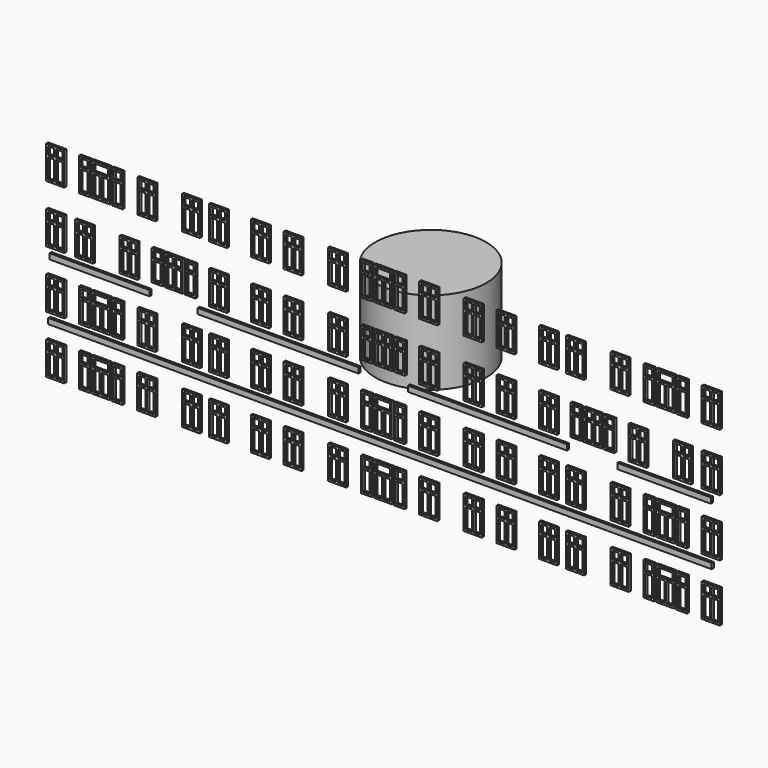
from build123d import *

# Parameters (mm, degrees)
F0_R     = 533.4
F1_DEPTH = 800
F4_W     = 174.730817
F4_H     = 316.979656
F4_W_2   = 60.48375
F4_H_2   = 189.291747
F4_H_3   = 73.924592
F4_W_3   = 174.730842
F4_H_4   = 316.97963
F4_H_5   = 189.291748
F4_H_6   = 73.924591
F4_W_4   = 174.730816
F4_W_5   = 174.735211
F4_W_6   = 138.892991
F4_H_7   = 316.979655
F4_H_8   = 189.291722
F4_W_7   = 103.03764
F4_H_9   = 318.475995
F4_W_8   = 67.204158
F4_H_10  = 190.788087
F4_W_9   = 103.046403
F4_W_10  = 67.204159
F4_W_11  = 67.204184
F4_W_12  = 103.046377
F4_W_13  = 67.204183
F4_H_11  = 190.788061
F4_W_14  = 961.579611
F4_H_12  = 53.010791
F4_W_15  = 174.730841
F4_W_16  = 138.888597
F4_W_17  = 103.046378
F4_W_18  = 138.888623
F4_H_13  = 169.344874
F4_H_14  = 70.739381
F4_H_15  = 291.53744
F4_H_16  = 170.219929
F4_H_17  = 69.094299
F4_H_18  = 174.704578
F4_H_19  = 65.379676
F4_W_19  = 138.888622
F4_W_20  = 898.978237
F5_DEPTH = 25


with BuildPart() as f1:
    # F0 (on Top) → F1 (new body)
    with BuildSketch(Plane.XY):
        Circle(F0_R)
    extrude(amount=F1_DEPTH)


with BuildPart() as f5:
    # F4 (on offset) → F5 (new body)
    with BuildSketch(Plane.XZ.offset(550)):
        with Locations((864.365454, -829.039541)):
            Rectangle(F4_W, F4_H)
        with Locations((825.163018, -874.962372)):
            Rectangle(F4_W_2, F4_H_2, mode=Mode.SUBTRACT)
        with Locations((903.567891, -874.962372)):
            Rectangle(F4_W_2, F4_H_2, mode=Mode.SUBTRACT)
        with Locations((825.163018, -725.433106)):
            Rectangle(F4_W_2, F4_H_3, mode=Mode.SUBTRACT)
        with Locations((903.567891, -725.433106)):
            Rectangle(F4_W_2, F4_H_3, mode=Mode.SUBTRACT)
        with Locations((1177.984906, -829.039541)):
            Rectangle(F4_W_3, F4_H)
        with Locations((1138.782457, -874.962372)):
            Rectangle(F4_W_2, F4_H_2, mode=Mode.SUBTRACT)
        with Locations((1217.187329, -874.962372)):
            Rectangle(F4_W_2, F4_H_2, mode=Mode.SUBTRACT)
        with Locations((1138.782457, -725.433106)):
            Rectangle(F4_W_2, F4_H_3, mode=Mode.SUBTRACT)
        with Locations((1217.187329, -725.433106)):
            Rectangle(F4_W_2, F4_H_3, mode=Mode.SUBTRACT)
        with Locations((864.365454, -277.965357)):
            Rectangle(F4_W, F4_H)
        with Locations((825.163018, -323.888215)):
            Rectangle(F4_W_2, F4_H_2, mode=Mode.SUBTRACT)
        with Locations((903.567891, -323.888215)):
            Rectangle(F4_W_2, F4_H_2, mode=Mode.SUBTRACT)
        with Locations((825.163018, -174.358948)):
            Rectangle(F4_W_2, F4_H_3, mode=Mode.SUBTRACT)
        with Locations((903.567891, -174.358948)):
            Rectangle(F4_W_2, F4_H_3, mode=Mode.SUBTRACT)
        with Locations((1177.984906, -277.965357)):
            Rectangle(F4_W_3, F4_H)
        with Locations((1138.782457, -323.888215)):
            Rectangle(F4_W_2, F4_H_2, mode=Mode.SUBTRACT)
        with Locations((1217.187329, -323.888215)):
            Rectangle(F4_W_2, F4_H_2, mode=Mode.SUBTRACT)
        with Locations((1138.782457, -174.358948)):
            Rectangle(F4_W_2, F4_H_3, mode=Mode.SUBTRACT)
        with Locations((1217.187329, -174.358948)):
            Rectangle(F4_W_2, F4_H_3, mode=Mode.SUBTRACT)
        with Locations((864.365454, 275.348941)):
            Rectangle(F4_W, F4_H_4)
        with Locations((825.163018, 229.426097)):
            Rectangle(F4_W_2, F4_H_5, mode=Mode.SUBTRACT)
        with Locations((903.567891, 229.426097)):
            Rectangle(F4_W_2, F4_H_5, mode=Mode.SUBTRACT)
        with Locations((825.163018, 378.955363)):
            Rectangle(F4_W_2, F4_H_6, mode=Mode.SUBTRACT)
        with Locations((903.567891, 378.955363)):
            Rectangle(F4_W_2, F4_H_6, mode=Mode.SUBTRACT)
        with Locations((435.37886, 275.348941)):
            Rectangle(F4_W_4, F4_H_4)
        with Locations((396.176424, 229.426097)):
            Rectangle(F4_W_2, F4_H_5, mode=Mode.SUBTRACT)
        with Locations((474.581296, 229.426097)):
            Rectangle(F4_W_2, F4_H_5, mode=Mode.SUBTRACT)
        with Locations((396.176424, 378.955363)):
            Rectangle(F4_W_2, F4_H_6, mode=Mode.SUBTRACT)
        with Locations((474.581296, 378.955363)):
            Rectangle(F4_W_2, F4_H_6, mode=Mode.SUBTRACT)
        with Locations((435.37886, 829.783316)):
            Rectangle(F4_W_4, F4_H_4)
        with Locations((396.176424, 783.860472)):
            Rectangle(F4_W_2, F4_H_5, mode=Mode.SUBTRACT)
        with Locations((474.581296, 783.860472)):
            Rectangle(F4_W_2, F4_H_5, mode=Mode.SUBTRACT)
        with Locations((396.176424, 933.389739)):
            Rectangle(F4_W_2, F4_H_6, mode=Mode.SUBTRACT)
        with Locations((474.581296, 933.389739)):
            Rectangle(F4_W_2, F4_H_6, mode=Mode.SUBTRACT)
        with Locations((-442.75121, 275.348941)):
            Rectangle(F4_W_4, F4_H_4)
        with Locations((-481.953646, 229.426097)):
            Rectangle(F4_W_2, F4_H_5, mode=Mode.SUBTRACT)
        with Locations((-403.548774, 229.426097)):
            Rectangle(F4_W_2, F4_H_5, mode=Mode.SUBTRACT)
        with Locations((-481.953646, 378.955363)):
            Rectangle(F4_W_2, F4_H_6, mode=Mode.SUBTRACT)
        with Locations((-403.548774, 378.955363)):
            Rectangle(F4_W_2, F4_H_6, mode=Mode.SUBTRACT)
        with Locations((-442.75121, -277.965357)):
            Rectangle(F4_W_4, F4_H)
        with Locations((-481.953646, -323.888215)):
            Rectangle(F4_W_2, F4_H_2, mode=Mode.SUBTRACT)
        with Locations((-403.548774, -323.888215)):
            Rectangle(F4_W_2, F4_H_2, mode=Mode.SUBTRACT)
        with Locations((-481.953646, -174.358948)):
            Rectangle(F4_W_2, F4_H_3, mode=Mode.SUBTRACT)
        with Locations((-403.548774, -174.358948)):
            Rectangle(F4_W_2, F4_H_3, mode=Mode.SUBTRACT)
        with Locations((-442.75121, 829.783316)):
            Rectangle(F4_W_4, F4_H_4)
        with Locations((-481.953646, 783.860472)):
            Rectangle(F4_W_2, F4_H_5, mode=Mode.SUBTRACT)
        with Locations((-403.548774, 783.860472)):
            Rectangle(F4_W_2, F4_H_5, mode=Mode.SUBTRACT)
        with Locations((-481.953646, 933.389739)):
            Rectangle(F4_W_2, F4_H_6, mode=Mode.SUBTRACT)
        with Locations((-403.548774, 933.389739)):
            Rectangle(F4_W_2, F4_H_6, mode=Mode.SUBTRACT)
        with Locations((-2.561729, 829.783316)):
            Rectangle(F4_W_5, F4_H_4)
        with Locations((-41.766363, 783.860472)):
            Rectangle(F4_W_2, F4_H_5, mode=Mode.SUBTRACT)
        with Locations((-2.561742, 933.389739)):
            Rectangle(F4_W_6, F4_H_6, mode=Mode.SUBTRACT)
        with Locations((36.642878, 783.860472)):
            Rectangle(F4_W_2, F4_H_5, mode=Mode.SUBTRACT)
        with Locations((435.37886, -277.965357)):
            Rectangle(F4_W_4, F4_H)
        with Locations((396.176424, -323.888215)):
            Rectangle(F4_W_2, F4_H_2, mode=Mode.SUBTRACT)
        with Locations((474.581296, -323.888215)):
            Rectangle(F4_W_2, F4_H_2, mode=Mode.SUBTRACT)
        with Locations((396.176424, -174.358948)):
            Rectangle(F4_W_2, F4_H_3, mode=Mode.SUBTRACT)
        with Locations((474.581296, -174.358948)):
            Rectangle(F4_W_2, F4_H_3, mode=Mode.SUBTRACT)
        with Locations((1177.984906, 275.348941)):
            Rectangle(F4_W_3, F4_H_4)
        with Locations((1138.782457, 229.426097)):
            Rectangle(F4_W_2, F4_H_5, mode=Mode.SUBTRACT)
        with Locations((1217.187329, 229.426097)):
            Rectangle(F4_W_2, F4_H_5, mode=Mode.SUBTRACT)
        with Locations((1138.782457, 378.955363)):
            Rectangle(F4_W_2, F4_H_6, mode=Mode.SUBTRACT)
        with Locations((1217.187329, 378.955363)):
            Rectangle(F4_W_2, F4_H_6, mode=Mode.SUBTRACT)
        with Locations((864.365454, 825.303048)):
            Rectangle(F4_W, F4_H_7)
        with Locations((825.163018, 779.380191)):
            Rectangle(F4_W_2, F4_H_2, mode=Mode.SUBTRACT)
        with Locations((903.567891, 779.380191)):
            Rectangle(F4_W_2, F4_H_2, mode=Mode.SUBTRACT)
        with Locations((825.163018, 928.909458)):
            Rectangle(F4_W_2, F4_H_3, mode=Mode.SUBTRACT)
        with Locations((903.567891, 928.909458)):
            Rectangle(F4_W_2, F4_H_3, mode=Mode.SUBTRACT)
        with Locations((1177.984906, 825.303048)):
            Rectangle(F4_W_3, F4_H_7)
        with Locations((1138.782457, 779.380191)):
            Rectangle(F4_W_2, F4_H_2, mode=Mode.SUBTRACT)
        with Locations((1217.187329, 779.380191)):
            Rectangle(F4_W_2, F4_H_2, mode=Mode.SUBTRACT)
        with Locations((1138.782457, 928.909458)):
            Rectangle(F4_W_2, F4_H_3, mode=Mode.SUBTRACT)
        with Locations((1217.187329, 928.909458)):
            Rectangle(F4_W_2, F4_H_3, mode=Mode.SUBTRACT)
        with Locations((-1184.237192, -276.285249)):
            Rectangle(F4_W_3, F4_H)
        with Locations((-1223.439616, -322.208106)):
            Rectangle(F4_W_2, F4_H_5, mode=Mode.SUBTRACT)
        with Locations((-1145.034743, -322.208106)):
            Rectangle(F4_W_2, F4_H_5, mode=Mode.SUBTRACT)
        with Locations((-1223.439616, -172.678839)):
            Rectangle(F4_W_2, F4_H_3, mode=Mode.SUBTRACT)
        with Locations((-1145.034743, -172.678839)):
            Rectangle(F4_W_2, F4_H_3, mode=Mode.SUBTRACT)
        with Locations((-870.61774, -276.285249)):
            Rectangle(F4_W, F4_H)
        with Locations((-909.820177, -322.208106)):
            Rectangle(F4_W_2, F4_H_5, mode=Mode.SUBTRACT)
        with Locations((-831.415304, -322.208106)):
            Rectangle(F4_W_2, F4_H_5, mode=Mode.SUBTRACT)
        with Locations((-909.820177, -172.678839)):
            Rectangle(F4_W_2, F4_H_3, mode=Mode.SUBTRACT)
        with Locations((-831.415304, -172.678839)):
            Rectangle(F4_W_2, F4_H_3, mode=Mode.SUBTRACT)
        with Locations((-1184.237192, 277.029037)):
            Rectangle(F4_W_3, F4_H)
        with Locations((-1223.439616, 231.106193)):
            Rectangle(F4_W_2, F4_H_8, mode=Mode.SUBTRACT)
        with Locations((-1145.034743, 231.106193)):
            Rectangle(F4_W_2, F4_H_8, mode=Mode.SUBTRACT)
        with Locations((-1223.439616, 380.635472)):
            Rectangle(F4_W_2, F4_H_3, mode=Mode.SUBTRACT)
        with Locations((-1145.034743, 380.635472)):
            Rectangle(F4_W_2, F4_H_3, mode=Mode.SUBTRACT)
        with Locations((-870.61774, 277.029037)):
            Rectangle(F4_W, F4_H)
        with Locations((-909.820177, 231.106193)):
            Rectangle(F4_W_2, F4_H_8, mode=Mode.SUBTRACT)
        with Locations((-831.415304, 231.106193)):
            Rectangle(F4_W_2, F4_H_8, mode=Mode.SUBTRACT)
        with Locations((-909.820177, 380.635472)):
            Rectangle(F4_W_2, F4_H_3, mode=Mode.SUBTRACT)
        with Locations((-831.415304, 380.635472)):
            Rectangle(F4_W_2, F4_H_3, mode=Mode.SUBTRACT)
        with Locations((-1184.237192, 826.983131)):
            Rectangle(F4_W_3, F4_H_7)
        with Locations((-1223.439616, 781.060299)):
            Rectangle(F4_W_2, F4_H_2, mode=Mode.SUBTRACT)
        with Locations((-1145.034743, 781.060299)):
            Rectangle(F4_W_2, F4_H_2, mode=Mode.SUBTRACT)
        with Locations((-1223.439616, 930.589566)):
            Rectangle(F4_W_2, F4_H_3, mode=Mode.SUBTRACT)
        with Locations((-1145.034743, 930.589566)):
            Rectangle(F4_W_2, F4_H_3, mode=Mode.SUBTRACT)
        with Locations((-870.61774, 826.983131)):
            Rectangle(F4_W, F4_H_7)
        with Locations((-909.820177, 781.060299)):
            Rectangle(F4_W_2, F4_H_2, mode=Mode.SUBTRACT)
        with Locations((-831.415304, 781.060299)):
            Rectangle(F4_W_2, F4_H_2, mode=Mode.SUBTRACT)
        with Locations((-909.820177, 930.589566)):
            Rectangle(F4_W_2, F4_H_3, mode=Mode.SUBTRACT)
        with Locations((-831.415304, 930.589566)):
            Rectangle(F4_W_2, F4_H_3, mode=Mode.SUBTRACT)
        with Locations((435.37886, -829.039541)):
            Rectangle(F4_W_4, F4_H)
        with Locations((396.176424, -874.962372)):
            Rectangle(F4_W_2, F4_H_2, mode=Mode.SUBTRACT)
        with Locations((474.581296, -874.962372)):
            Rectangle(F4_W_2, F4_H_2, mode=Mode.SUBTRACT)
        with Locations((396.176424, -725.433106)):
            Rectangle(F4_W_2, F4_H_3, mode=Mode.SUBTRACT)
        with Locations((474.581296, -725.433106)):
            Rectangle(F4_W_2, F4_H_3, mode=Mode.SUBTRACT)
        with Locations((-441.631146, -829.039541)):
            Rectangle(F4_W_4, F4_H)
        with Locations((-480.833582, -874.962372)):
            Rectangle(F4_W_2, F4_H_2, mode=Mode.SUBTRACT)
        with Locations((-402.42871, -874.962372)):
            Rectangle(F4_W_2, F4_H_2, mode=Mode.SUBTRACT)
        with Locations((-480.833582, -725.433106)):
            Rectangle(F4_W_2, F4_H_3, mode=Mode.SUBTRACT)
        with Locations((-402.42871, -725.433106)):
            Rectangle(F4_W_2, F4_H_3, mode=Mode.SUBTRACT)
        with Locations((-870.61774, -829.039541)):
            Rectangle(F4_W, F4_H)
        with Locations((-909.820177, -874.962372)):
            Rectangle(F4_W_2, F4_H_2, mode=Mode.SUBTRACT)
        with Locations((-831.415304, -874.962372)):
            Rectangle(F4_W_2, F4_H_2, mode=Mode.SUBTRACT)
        with Locations((-909.820177, -725.433106)):
            Rectangle(F4_W_2, F4_H_3, mode=Mode.SUBTRACT)
        with Locations((-831.415304, -725.433106)):
            Rectangle(F4_W_2, F4_H_3, mode=Mode.SUBTRACT)
        with Locations((-1184.237192, -829.039541)):
            Rectangle(F4_W_3, F4_H)
        with Locations((-1223.439616, -874.962372)):
            Rectangle(F4_W_2, F4_H_2, mode=Mode.SUBTRACT)
        with Locations((-1145.034743, -874.962372)):
            Rectangle(F4_W_2, F4_H_2, mode=Mode.SUBTRACT)
        with Locations((-1223.439616, -725.433106)):
            Rectangle(F4_W_2, F4_H_3, mode=Mode.SUBTRACT)
        with Locations((-1145.034743, -725.433106)):
            Rectangle(F4_W_2, F4_H_3, mode=Mode.SUBTRACT)
        with Locations((156.485946, 829.035134)):
            Rectangle(F4_W_7, F4_H_9)
        with Locations((156.481564, 783.112302)):
            Rectangle(F4_W_8, F4_H_10, mode=Mode.SUBTRACT)
        with Locations((156.481564, 933.389739)):
            Rectangle(F4_W_8, F4_H_6, mode=Mode.SUBTRACT)
        with Locations((-161.613787, 829.035134)):
            Rectangle(F4_W_9, F4_H_9)
        with Locations((-161.613787, 783.112302)):
            Rectangle(F4_W_10, F4_H_10, mode=Mode.SUBTRACT)
        with Locations((-161.613787, 933.389739)):
            Rectangle(F4_W_10, F4_H_6, mode=Mode.SUBTRACT)
        with Locations((-3.121775, -277.212819)):
            Rectangle(F4_W_5, F4_H_4)
        with Locations((-42.326382, -323.135663)):
            Rectangle(F4_W_2, F4_H_5, mode=Mode.SUBTRACT)
        with Locations((-3.121762, -173.606397)):
            Rectangle(F4_W_6, F4_H_6, mode=Mode.SUBTRACT)
        with Locations((36.082859, -323.135663)):
            Rectangle(F4_W_2, F4_H_5, mode=Mode.SUBTRACT)
        with Locations((155.925901, -277.961001)):
            Rectangle(F4_W_7, F4_H_9)
        with Locations((155.921532, -323.883832)):
            Rectangle(F4_W_11, F4_H_10, mode=Mode.SUBTRACT)
        with Locations((155.921532, -173.606397)):
            Rectangle(F4_W_11, F4_H_6, mode=Mode.SUBTRACT)
        with Locations((-162.173818, -277.961001)):
            Rectangle(F4_W_12, F4_H_9)
        with Locations((-162.173818, -323.883832)):
            Rectangle(F4_W_13, F4_H_10, mode=Mode.SUBTRACT)
        with Locations((-162.173818, -173.606397)):
            Rectangle(F4_W_13, F4_H_6, mode=Mode.SUBTRACT)
        with Locations((-2.561729, -828.286989)):
            Rectangle(F4_W_5, F4_H_7)
        with Locations((-41.766363, -874.209834)):
            Rectangle(F4_W_2, F4_H_8, mode=Mode.SUBTRACT)
        with Locations((-2.561742, -724.680555)):
            Rectangle(F4_W_6, F4_H_3, mode=Mode.SUBTRACT)
        with Locations((36.642878, -874.209834)):
            Rectangle(F4_W_2, F4_H_8, mode=Mode.SUBTRACT)
        with Locations((156.485946, -829.035159)):
            Rectangle(F4_W_7, F4_H_9)
        with Locations((156.481564, -874.958003)):
            Rectangle(F4_W_8, F4_H_11, mode=Mode.SUBTRACT)
        with Locations((156.481564, -724.680555)):
            Rectangle(F4_W_8, F4_H_3, mode=Mode.SUBTRACT)
        with Locations((-161.613787, -829.035159)):
            Rectangle(F4_W_9, F4_H_9)
        with Locations((-161.613787, -874.958003)):
            Rectangle(F4_W_10, F4_H_11, mode=Mode.SUBTRACT)
        with Locations((-161.613787, -724.680555)):
            Rectangle(F4_W_10, F4_H_3, mode=Mode.SUBTRACT)
        Polygon((3163.150468, -535.38882), (3163.150468, -482.378029), (1424.023898, -482.378029), (1373.997049, -482.378029), (1321.362534, -482.378029), (-1323.31394, -482.378029), (-3221.184109, -482.378029), (-3221.184109, -535.38882), (-1323.31394, -535.38882), (1321.362534, -535.38882), (1373.997049, -535.38882), (1424.023898, -535.38882), align=None)
        with Locations((-2727.163468, 43.678335)):
            Rectangle(F4_W_14, F4_H_12)
        Polygon((-1783.014925, 70.183731), (-1783.014925, 17.17294), (-1323.31394, 17.17294), (-235.538366, 17.17294), (-235.538366, 70.183731), (-1323.31394, 70.183731), align=None)
        Polygon((1321.362534, 17.17294), (1373.997049, 17.17294), (1433.658245, 17.17294), (1769.784091, 17.17294), (1769.784091, 70.183731), (1433.658245, 70.183731), (1373.997049, 70.183731), (1318.746131, 70.183731), (238.920426, 70.183731), (238.920426, 17.17294), align=None)
        with Locations((-3154.189945, 275.348941)):
            Rectangle(F4_W_3, F4_H_4)
        with Locations((-3193.392369, 229.426097)):
            Rectangle(F4_W_2, F4_H_5, mode=Mode.SUBTRACT)
        with Locations((-3114.987522, 229.426097)):
            Rectangle(F4_W_2, F4_H_5, mode=Mode.SUBTRACT)
        with Locations((-3193.392369, 378.955363)):
            Rectangle(F4_W_2, F4_H_6, mode=Mode.SUBTRACT)
        with Locations((-3114.987522, 378.955363)):
            Rectangle(F4_W_2, F4_H_6, mode=Mode.SUBTRACT)
        with Locations((-3154.189945, 829.783316)):
            Rectangle(F4_W_3, F4_H_4)
        with Locations((-3193.392369, 783.860472)):
            Rectangle(F4_W_2, F4_H_5, mode=Mode.SUBTRACT)
        with Locations((-3114.987522, 783.860472)):
            Rectangle(F4_W_2, F4_H_5, mode=Mode.SUBTRACT)
        with Locations((-3193.392369, 933.389739)):
            Rectangle(F4_W_2, F4_H_6, mode=Mode.SUBTRACT)
        with Locations((-3114.987522, 933.389739)):
            Rectangle(F4_W_2, F4_H_6, mode=Mode.SUBTRACT)
        with Locations((-2876.412726, 275.348941)):
            Rectangle(F4_W_3, F4_H_4)
        with Locations((-2915.615149, 229.426097)):
            Rectangle(F4_W_2, F4_H_5, mode=Mode.SUBTRACT)
        with Locations((-2837.210302, 229.426097)):
            Rectangle(F4_W_2, F4_H_5, mode=Mode.SUBTRACT)
        with Locations((-2915.615149, 378.955363)):
            Rectangle(F4_W_2, F4_H_6, mode=Mode.SUBTRACT)
        with Locations((-2837.210302, 378.955363)):
            Rectangle(F4_W_2, F4_H_6, mode=Mode.SUBTRACT)
        with Locations((-2276.055506, -277.965357)):
            Rectangle(F4_W_3, F4_H)
        with Locations((-2315.25793, -323.888215)):
            Rectangle(F4_W_2, F4_H_2, mode=Mode.SUBTRACT)
        with Locations((-2236.853083, -323.888215)):
            Rectangle(F4_W_2, F4_H_2, mode=Mode.SUBTRACT)
        with Locations((-2315.25793, -174.358948)):
            Rectangle(F4_W_2, F4_H_3, mode=Mode.SUBTRACT)
        with Locations((-2236.853083, -174.358948)):
            Rectangle(F4_W_2, F4_H_3, mode=Mode.SUBTRACT)
        with Locations((-2276.055506, 829.783316)):
            Rectangle(F4_W_3, F4_H_4)
        with Locations((-2315.25793, 783.860472)):
            Rectangle(F4_W_2, F4_H_5, mode=Mode.SUBTRACT)
        with Locations((-2236.853083, 783.860472)):
            Rectangle(F4_W_2, F4_H_5, mode=Mode.SUBTRACT)
        with Locations((-2315.25793, 933.389739)):
            Rectangle(F4_W_2, F4_H_6, mode=Mode.SUBTRACT)
        with Locations((-2236.853083, 933.389739)):
            Rectangle(F4_W_2, F4_H_6, mode=Mode.SUBTRACT)
        with Locations((-2716.24279, 829.783316)):
            Rectangle(F4_W_15, F4_H_4)
        with Locations((-2755.445213, 783.860472)):
            Rectangle(F4_W_2, F4_H_5, mode=Mode.SUBTRACT)
        with Locations((-2677.040366, 783.860472)):
            Rectangle(F4_W_2, F4_H_5, mode=Mode.SUBTRACT)
        with Locations((-2716.24279, 933.389739)):
            Rectangle(F4_W_16, F4_H_6, mode=Mode.SUBTRACT)
        with Locations((-3154.189945, -277.965357)):
            Rectangle(F4_W_3, F4_H)
        with Locations((-3193.392369, -323.888215)):
            Rectangle(F4_W_2, F4_H_2, mode=Mode.SUBTRACT)
        with Locations((-3114.987522, -323.888215)):
            Rectangle(F4_W_2, F4_H_2, mode=Mode.SUBTRACT)
        with Locations((-3193.392369, -174.358948)):
            Rectangle(F4_W_2, F4_H_3, mode=Mode.SUBTRACT)
        with Locations((-3114.987522, -174.358948)):
            Rectangle(F4_W_2, F4_H_3, mode=Mode.SUBTRACT)
        with Locations((-1588.332866, -276.285249)):
            Rectangle(F4_W_4, F4_H)
        with Locations((-1627.535302, -322.208106)):
            Rectangle(F4_W_2, F4_H_5, mode=Mode.SUBTRACT)
        with Locations((-1627.535302, -172.678839)):
            Rectangle(F4_W_2, F4_H_3, mode=Mode.SUBTRACT)
        with Locations((-1549.13043, -322.208106)):
            Rectangle(F4_W_2, F4_H_5, mode=Mode.SUBTRACT)
        with Locations((-1549.13043, -172.678839)):
            Rectangle(F4_W_2, F4_H_3, mode=Mode.SUBTRACT)
        with Locations((-1848.188976, -276.285249)):
            Rectangle(F4_W_3, F4_H)
        with Locations((-1887.391399, -322.208106)):
            Rectangle(F4_W_2, F4_H_5, mode=Mode.SUBTRACT)
        with Locations((-1808.986552, -322.208106)):
            Rectangle(F4_W_2, F4_H_5, mode=Mode.SUBTRACT)
        with Locations((-1887.391399, -172.678839)):
            Rectangle(F4_W_2, F4_H_3, mode=Mode.SUBTRACT)
        with Locations((-1808.986552, -172.678839)):
            Rectangle(F4_W_2, F4_H_3, mode=Mode.SUBTRACT)
        with Locations((-1588.332866, 277.029037)):
            Rectangle(F4_W_4, F4_H)
        with Locations((-1627.535302, 231.106193)):
            Rectangle(F4_W_2, F4_H_8, mode=Mode.SUBTRACT)
        with Locations((-1627.535302, 380.635472)):
            Rectangle(F4_W_2, F4_H_3, mode=Mode.SUBTRACT)
        with Locations((-1549.13043, 231.106193)):
            Rectangle(F4_W_2, F4_H_8, mode=Mode.SUBTRACT)
        with Locations((-1549.13043, 380.635472)):
            Rectangle(F4_W_2, F4_H_3, mode=Mode.SUBTRACT)
        with Locations((-2448.546195, 277.029037)):
            Rectangle(F4_W_3, F4_H)
        with Locations((-2487.748619, 231.106193)):
            Rectangle(F4_W_2, F4_H_8, mode=Mode.SUBTRACT)
        with Locations((-2409.343772, 231.106193)):
            Rectangle(F4_W_2, F4_H_8, mode=Mode.SUBTRACT)
        with Locations((-2487.748619, 380.635472)):
            Rectangle(F4_W_2, F4_H_3, mode=Mode.SUBTRACT)
        with Locations((-2409.343772, 380.635472)):
            Rectangle(F4_W_2, F4_H_3, mode=Mode.SUBTRACT)
        with Locations((-1588.332866, 826.983131)):
            Rectangle(F4_W_4, F4_H_7)
        with Locations((-1627.535302, 781.060299)):
            Rectangle(F4_W_2, F4_H_2, mode=Mode.SUBTRACT)
        with Locations((-1627.535302, 930.589566)):
            Rectangle(F4_W_2, F4_H_3, mode=Mode.SUBTRACT)
        with Locations((-1549.13043, 781.060299)):
            Rectangle(F4_W_2, F4_H_2, mode=Mode.SUBTRACT)
        with Locations((-1549.13043, 930.589566)):
            Rectangle(F4_W_2, F4_H_3, mode=Mode.SUBTRACT)
        with Locations((-1848.188976, 826.983131)):
            Rectangle(F4_W_3, F4_H_7)
        with Locations((-1887.391399, 781.060299)):
            Rectangle(F4_W_2, F4_H_2, mode=Mode.SUBTRACT)
        with Locations((-1808.986552, 781.060299)):
            Rectangle(F4_W_2, F4_H_2, mode=Mode.SUBTRACT)
        with Locations((-1887.391399, 930.589566)):
            Rectangle(F4_W_2, F4_H_3, mode=Mode.SUBTRACT)
        with Locations((-1808.986552, 930.589566)):
            Rectangle(F4_W_2, F4_H_3, mode=Mode.SUBTRACT)
        with Locations((-3154.189945, -829.039541)):
            Rectangle(F4_W_3, F4_H)
        with Locations((-3193.392369, -874.962372)):
            Rectangle(F4_W_2, F4_H_2, mode=Mode.SUBTRACT)
        with Locations((-3114.987522, -874.962372)):
            Rectangle(F4_W_2, F4_H_2, mode=Mode.SUBTRACT)
        with Locations((-3193.392369, -725.433106)):
            Rectangle(F4_W_2, F4_H_3, mode=Mode.SUBTRACT)
        with Locations((-3114.987522, -725.433106)):
            Rectangle(F4_W_2, F4_H_3, mode=Mode.SUBTRACT)
        with Locations((-2277.17557, -829.039541)):
            Rectangle(F4_W_3, F4_H)
        with Locations((-2316.377994, -874.962372)):
            Rectangle(F4_W_2, F4_H_2, mode=Mode.SUBTRACT)
        with Locations((-2237.973147, -874.962372)):
            Rectangle(F4_W_2, F4_H_2, mode=Mode.SUBTRACT)
        with Locations((-2316.377994, -725.433106)):
            Rectangle(F4_W_2, F4_H_3, mode=Mode.SUBTRACT)
        with Locations((-2237.973147, -725.433106)):
            Rectangle(F4_W_2, F4_H_3, mode=Mode.SUBTRACT)
        with Locations((-1848.188976, -829.039541)):
            Rectangle(F4_W_3, F4_H)
        with Locations((-1887.391399, -874.962372)):
            Rectangle(F4_W_2, F4_H_2, mode=Mode.SUBTRACT)
        with Locations((-1808.986552, -874.962372)):
            Rectangle(F4_W_2, F4_H_2, mode=Mode.SUBTRACT)
        with Locations((-1887.391399, -725.433106)):
            Rectangle(F4_W_2, F4_H_3, mode=Mode.SUBTRACT)
        with Locations((-1808.986552, -725.433106)):
            Rectangle(F4_W_2, F4_H_3, mode=Mode.SUBTRACT)
        with Locations((-1588.332866, -829.039541)):
            Rectangle(F4_W_4, F4_H)
        with Locations((-1627.535302, -874.962372)):
            Rectangle(F4_W_2, F4_H_2, mode=Mode.SUBTRACT)
        with Locations((-1627.535302, -725.433106)):
            Rectangle(F4_W_2, F4_H_3, mode=Mode.SUBTRACT)
        with Locations((-1549.13043, -874.962372)):
            Rectangle(F4_W_2, F4_H_2, mode=Mode.SUBTRACT)
        with Locations((-1549.13043, -725.433106)):
            Rectangle(F4_W_2, F4_H_3, mode=Mode.SUBTRACT)
        with Locations((-2875.292649, 829.035134)):
            Rectangle(F4_W_17, F4_H_9)
        with Locations((-2875.292662, 783.112302)):
            Rectangle(F4_W_8, F4_H_10, mode=Mode.SUBTRACT)
        with Locations((-2875.292662, 933.389739)):
            Rectangle(F4_W_8, F4_H_6, mode=Mode.SUBTRACT)
        with Locations((-2557.19293, 829.035134)):
            Rectangle(F4_W_17, F4_H_9)
        with Locations((-2557.19293, 783.112302)):
            Rectangle(F4_W_11, F4_H_10, mode=Mode.SUBTRACT)
        with Locations((-2557.19293, 933.389739)):
            Rectangle(F4_W_11, F4_H_6, mode=Mode.SUBTRACT)
        with Locations((-2715.682757, -277.212819)):
            Rectangle(F4_W, F4_H_4)
        with Locations((-2754.885194, -323.135663)):
            Rectangle(F4_W_2, F4_H_5, mode=Mode.SUBTRACT)
        with Locations((-2676.480321, -323.135663)):
            Rectangle(F4_W_2, F4_H_5, mode=Mode.SUBTRACT)
        with Locations((-2715.682757, -173.606397)):
            Rectangle(F4_W_18, F4_H_6, mode=Mode.SUBTRACT)
        with Locations((-2874.732617, -277.961001)):
            Rectangle(F4_W_9, F4_H_9)
        with Locations((-2874.732617, -323.883832)):
            Rectangle(F4_W_8, F4_H_10, mode=Mode.SUBTRACT)
        with Locations((-2874.732617, -173.606397)):
            Rectangle(F4_W_8, F4_H_6, mode=Mode.SUBTRACT)
        with Locations((-2556.632897, -277.961001)):
            Rectangle(F4_W_9, F4_H_9)
        with Locations((-2556.632898, -323.883832)):
            Rectangle(F4_W_8, F4_H_10, mode=Mode.SUBTRACT)
        with Locations((-2556.632898, -173.606397)):
            Rectangle(F4_W_8, F4_H_6, mode=Mode.SUBTRACT)
        with Locations((-2716.24279, -828.286989)):
            Rectangle(F4_W_15, F4_H_7)
        with Locations((-2755.445213, -874.209834)):
            Rectangle(F4_W_2, F4_H_8, mode=Mode.SUBTRACT)
        with Locations((-2677.040366, -874.209834)):
            Rectangle(F4_W_2, F4_H_8, mode=Mode.SUBTRACT)
        with Locations((-2716.24279, -724.680555)):
            Rectangle(F4_W_16, F4_H_3, mode=Mode.SUBTRACT)
        with Locations((-2875.292649, -829.035159)):
            Rectangle(F4_W_17, F4_H_9)
        with Locations((-2875.292662, -874.958003)):
            Rectangle(F4_W_8, F4_H_11, mode=Mode.SUBTRACT)
        with Locations((-2875.292662, -724.680555)):
            Rectangle(F4_W_8, F4_H_3, mode=Mode.SUBTRACT)
        with Locations((-2557.19293, -829.035159)):
            Rectangle(F4_W_17, F4_H_9)
        with Locations((-2557.19293, -874.958003)):
            Rectangle(F4_W_11, F4_H_11, mode=Mode.SUBTRACT)
        with Locations((-2557.19293, -724.680555)):
            Rectangle(F4_W_11, F4_H_3, mode=Mode.SUBTRACT)
        Polygon((-2023.479849, 142.301316), (-2005.558727, 142.301316), (-1927.15388, 142.301316), (-1927.15388, 433.838756), (-2101.884696, 433.838756), (-2101.884696, 142.301316), align=None)
        with Locations((-2053.721724, 244.124823)):
            Rectangle(F4_W_2, F4_H_13, mode=Mode.SUBTRACT)
        with Locations((-1975.316852, 244.124823)):
            Rectangle(F4_W_2, F4_H_13, mode=Mode.SUBTRACT)
        with Locations((-2053.721724, 381.31802)):
            Rectangle(F4_W_2, F4_H_14, mode=Mode.SUBTRACT)
        with Locations((-1975.316852, 381.31802)):
            Rectangle(F4_W_2, F4_H_14, mode=Mode.SUBTRACT)
        with Locations((-2173.569147, 288.070036)):
            Rectangle(F4_W_9, F4_H_15)
        with Locations((-2173.569148, 244.56235)):
            Rectangle(F4_W_8, F4_H_16, mode=Mode.SUBTRACT)
        with Locations((-2173.569148, 382.140561)):
            Rectangle(F4_W_8, F4_H_17, mode=Mode.SUBTRACT)
        with Locations((-1855.469429, 288.070036)):
            Rectangle(F4_W_9, F4_H_15)
        with Locations((-1855.469429, 246.804675)):
            Rectangle(F4_W_10, F4_H_18, mode=Mode.SUBTRACT)
        with Locations((-1855.469429, 383.997873)):
            Rectangle(F4_W_10, F4_H_19, mode=Mode.SUBTRACT)
        with Locations((3154.18992, 275.348941)):
            Rectangle(F4_W_3, F4_H_4)
        with Locations((3114.987496, 229.426097)):
            Rectangle(F4_W_2, F4_H_5, mode=Mode.SUBTRACT)
        with Locations((3193.392343, 229.426097)):
            Rectangle(F4_W_2, F4_H_5, mode=Mode.SUBTRACT)
        with Locations((3114.987496, 378.955363)):
            Rectangle(F4_W_2, F4_H_6, mode=Mode.SUBTRACT)
        with Locations((3193.392343, 378.955363)):
            Rectangle(F4_W_2, F4_H_6, mode=Mode.SUBTRACT)
        with Locations((3154.18992, 829.783316)):
            Rectangle(F4_W_3, F4_H_4)
        with Locations((3114.987496, 783.860472)):
            Rectangle(F4_W_2, F4_H_5, mode=Mode.SUBTRACT)
        with Locations((3193.392343, 783.860472)):
            Rectangle(F4_W_2, F4_H_5, mode=Mode.SUBTRACT)
        with Locations((3114.987496, 933.389739)):
            Rectangle(F4_W_2, F4_H_6, mode=Mode.SUBTRACT)
        with Locations((3193.392343, 933.389739)):
            Rectangle(F4_W_2, F4_H_6, mode=Mode.SUBTRACT)
        with Locations((2876.4127, 275.348941)):
            Rectangle(F4_W_3, F4_H_4)
        with Locations((2837.210277, 229.426097)):
            Rectangle(F4_W_2, F4_H_5, mode=Mode.SUBTRACT)
        with Locations((2915.615124, 229.426097)):
            Rectangle(F4_W_2, F4_H_5, mode=Mode.SUBTRACT)
        with Locations((2837.210277, 378.955363)):
            Rectangle(F4_W_2, F4_H_6, mode=Mode.SUBTRACT)
        with Locations((2915.615124, 378.955363)):
            Rectangle(F4_W_2, F4_H_6, mode=Mode.SUBTRACT)
        with Locations((2276.055481, -277.965357)):
            Rectangle(F4_W_3, F4_H)
        with Locations((2236.853057, -323.888215)):
            Rectangle(F4_W_2, F4_H_2, mode=Mode.SUBTRACT)
        with Locations((2315.257904, -323.888215)):
            Rectangle(F4_W_2, F4_H_2, mode=Mode.SUBTRACT)
        with Locations((2236.853057, -174.358948)):
            Rectangle(F4_W_2, F4_H_3, mode=Mode.SUBTRACT)
        with Locations((2315.257904, -174.358948)):
            Rectangle(F4_W_2, F4_H_3, mode=Mode.SUBTRACT)
        with Locations((2276.055481, 829.783316)):
            Rectangle(F4_W_3, F4_H_4)
        with Locations((2236.853057, 783.860472)):
            Rectangle(F4_W_2, F4_H_5, mode=Mode.SUBTRACT)
        with Locations((2315.257904, 783.860472)):
            Rectangle(F4_W_2, F4_H_5, mode=Mode.SUBTRACT)
        with Locations((2236.853057, 933.389739)):
            Rectangle(F4_W_2, F4_H_6, mode=Mode.SUBTRACT)
        with Locations((2315.257904, 933.389739)):
            Rectangle(F4_W_2, F4_H_6, mode=Mode.SUBTRACT)
        with Locations((2716.242764, 829.783316)):
            Rectangle(F4_W_3, F4_H_4)
        with Locations((2677.040341, 783.860472)):
            Rectangle(F4_W_2, F4_H_5, mode=Mode.SUBTRACT)
        with Locations((2755.445188, 783.860472)):
            Rectangle(F4_W_2, F4_H_5, mode=Mode.SUBTRACT)
        with Locations((2716.242764, 933.389739)):
            Rectangle(F4_W_16, F4_H_6, mode=Mode.SUBTRACT)
        with Locations((3154.18992, -277.965357)):
            Rectangle(F4_W_3, F4_H)
        with Locations((3114.987496, -323.888215)):
            Rectangle(F4_W_2, F4_H_2, mode=Mode.SUBTRACT)
        with Locations((3193.392343, -323.888215)):
            Rectangle(F4_W_2, F4_H_2, mode=Mode.SUBTRACT)
        with Locations((3114.987496, -174.358948)):
            Rectangle(F4_W_2, F4_H_3, mode=Mode.SUBTRACT)
        with Locations((3193.392343, -174.358948)):
            Rectangle(F4_W_2, F4_H_3, mode=Mode.SUBTRACT)
        with Locations((1588.33284, -276.285249)):
            Rectangle(F4_W, F4_H)
        with Locations((1549.130404, -322.208106)):
            Rectangle(F4_W_2, F4_H_5, mode=Mode.SUBTRACT)
        with Locations((1549.130404, -172.678839)):
            Rectangle(F4_W_2, F4_H_3, mode=Mode.SUBTRACT)
        with Locations((1627.535277, -322.208106)):
            Rectangle(F4_W_2, F4_H_5, mode=Mode.SUBTRACT)
        with Locations((1627.535277, -172.678839)):
            Rectangle(F4_W_2, F4_H_3, mode=Mode.SUBTRACT)
        with Locations((1848.18895, -276.285249)):
            Rectangle(F4_W_3, F4_H)
        with Locations((1808.986527, -322.208106)):
            Rectangle(F4_W_2, F4_H_5, mode=Mode.SUBTRACT)
        with Locations((1887.391374, -322.208106)):
            Rectangle(F4_W_2, F4_H_5, mode=Mode.SUBTRACT)
        with Locations((1808.986527, -172.678839)):
            Rectangle(F4_W_2, F4_H_3, mode=Mode.SUBTRACT)
        with Locations((1887.391374, -172.678839)):
            Rectangle(F4_W_2, F4_H_3, mode=Mode.SUBTRACT)
        with Locations((1588.33284, 277.029037)):
            Rectangle(F4_W, F4_H)
        with Locations((1549.130404, 231.106193)):
            Rectangle(F4_W_2, F4_H_8, mode=Mode.SUBTRACT)
        with Locations((1549.130404, 380.635472)):
            Rectangle(F4_W_2, F4_H_3, mode=Mode.SUBTRACT)
        with Locations((1627.535277, 231.106193)):
            Rectangle(F4_W_2, F4_H_8, mode=Mode.SUBTRACT)
        with Locations((1627.535277, 380.635472)):
            Rectangle(F4_W_2, F4_H_3, mode=Mode.SUBTRACT)
        with Locations((2448.54617, 277.029037)):
            Rectangle(F4_W_3, F4_H)
        with Locations((2409.343746, 231.106193)):
            Rectangle(F4_W_2, F4_H_8, mode=Mode.SUBTRACT)
        with Locations((2487.748593, 231.106193)):
            Rectangle(F4_W_2, F4_H_8, mode=Mode.SUBTRACT)
        with Locations((2409.343746, 380.635472)):
            Rectangle(F4_W_2, F4_H_3, mode=Mode.SUBTRACT)
        with Locations((2487.748593, 380.635472)):
            Rectangle(F4_W_2, F4_H_3, mode=Mode.SUBTRACT)
        with Locations((1588.33284, 826.983131)):
            Rectangle(F4_W, F4_H_7)
        with Locations((1549.130404, 781.060299)):
            Rectangle(F4_W_2, F4_H_2, mode=Mode.SUBTRACT)
        with Locations((1549.130404, 930.589566)):
            Rectangle(F4_W_2, F4_H_3, mode=Mode.SUBTRACT)
        with Locations((1627.535277, 781.060299)):
            Rectangle(F4_W_2, F4_H_2, mode=Mode.SUBTRACT)
        with Locations((1627.535277, 930.589566)):
            Rectangle(F4_W_2, F4_H_3, mode=Mode.SUBTRACT)
        with Locations((1848.18895, 826.983131)):
            Rectangle(F4_W_3, F4_H_7)
        with Locations((1808.986527, 781.060299)):
            Rectangle(F4_W_2, F4_H_2, mode=Mode.SUBTRACT)
        with Locations((1887.391374, 781.060299)):
            Rectangle(F4_W_2, F4_H_2, mode=Mode.SUBTRACT)
        with Locations((1808.986527, 930.589566)):
            Rectangle(F4_W_2, F4_H_3, mode=Mode.SUBTRACT)
        with Locations((1887.391374, 930.589566)):
            Rectangle(F4_W_2, F4_H_3, mode=Mode.SUBTRACT)
        with Locations((3154.18992, -829.039541)):
            Rectangle(F4_W_3, F4_H)
        with Locations((3114.987496, -874.962372)):
            Rectangle(F4_W_2, F4_H_2, mode=Mode.SUBTRACT)
        with Locations((3193.392343, -874.962372)):
            Rectangle(F4_W_2, F4_H_2, mode=Mode.SUBTRACT)
        with Locations((3114.987496, -725.433106)):
            Rectangle(F4_W_2, F4_H_3, mode=Mode.SUBTRACT)
        with Locations((3193.392343, -725.433106)):
            Rectangle(F4_W_2, F4_H_3, mode=Mode.SUBTRACT)
        with Locations((2277.175545, -829.039541)):
            Rectangle(F4_W_3, F4_H)
        with Locations((2237.973121, -874.962372)):
            Rectangle(F4_W_2, F4_H_2, mode=Mode.SUBTRACT)
        with Locations((2316.377968, -874.962372)):
            Rectangle(F4_W_2, F4_H_2, mode=Mode.SUBTRACT)
        with Locations((2237.973121, -725.433106)):
            Rectangle(F4_W_2, F4_H_3, mode=Mode.SUBTRACT)
        with Locations((2316.377968, -725.433106)):
            Rectangle(F4_W_2, F4_H_3, mode=Mode.SUBTRACT)
        with Locations((1848.18895, -829.039541)):
            Rectangle(F4_W_3, F4_H)
        with Locations((1808.986527, -874.962372)):
            Rectangle(F4_W_2, F4_H_2, mode=Mode.SUBTRACT)
        with Locations((1887.391374, -874.962372)):
            Rectangle(F4_W_2, F4_H_2, mode=Mode.SUBTRACT)
        with Locations((1808.986527, -725.433106)):
            Rectangle(F4_W_2, F4_H_3, mode=Mode.SUBTRACT)
        with Locations((1887.391374, -725.433106)):
            Rectangle(F4_W_2, F4_H_3, mode=Mode.SUBTRACT)
        with Locations((1588.33284, -829.039541)):
            Rectangle(F4_W, F4_H)
        with Locations((1549.130404, -874.962372)):
            Rectangle(F4_W_2, F4_H_2, mode=Mode.SUBTRACT)
        with Locations((1549.130404, -725.433106)):
            Rectangle(F4_W_2, F4_H_3, mode=Mode.SUBTRACT)
        with Locations((1627.535277, -874.962372)):
            Rectangle(F4_W_2, F4_H_2, mode=Mode.SUBTRACT)
        with Locations((1627.535277, -725.433106)):
            Rectangle(F4_W_2, F4_H_3, mode=Mode.SUBTRACT)
        with Locations((2875.292624, 829.035134)):
            Rectangle(F4_W_17, F4_H_9)
        with Locations((2875.292636, 783.112302)):
            Rectangle(F4_W_10, F4_H_10, mode=Mode.SUBTRACT)
        with Locations((2875.292636, 933.389739)):
            Rectangle(F4_W_10, F4_H_6, mode=Mode.SUBTRACT)
        with Locations((2557.192904, 829.035134)):
            Rectangle(F4_W_12, F4_H_9)
        with Locations((2557.192904, 783.112302)):
            Rectangle(F4_W_13, F4_H_10, mode=Mode.SUBTRACT)
        with Locations((2557.192904, 933.389739)):
            Rectangle(F4_W_13, F4_H_6, mode=Mode.SUBTRACT)
        with Locations((2715.682732, -277.212819)):
            Rectangle(F4_W_4, F4_H_4)
        with Locations((2676.480296, -323.135663)):
            Rectangle(F4_W_2, F4_H_5, mode=Mode.SUBTRACT)
        with Locations((2754.885168, -323.135663)):
            Rectangle(F4_W_2, F4_H_5, mode=Mode.SUBTRACT)
        with Locations((2715.682732, -173.606397)):
            Rectangle(F4_W_19, F4_H_6, mode=Mode.SUBTRACT)
        with Locations((2874.732592, -277.961001)):
            Rectangle(F4_W_9, F4_H_9)
        with Locations((2874.732592, -323.883832)):
            Rectangle(F4_W_8, F4_H_10, mode=Mode.SUBTRACT)
        with Locations((2874.732592, -173.606397)):
            Rectangle(F4_W_8, F4_H_6, mode=Mode.SUBTRACT)
        with Locations((2556.632872, -277.961001)):
            Rectangle(F4_W_9, F4_H_9)
        with Locations((2556.632872, -323.883832)):
            Rectangle(F4_W_10, F4_H_10, mode=Mode.SUBTRACT)
        with Locations((2556.632872, -173.606397)):
            Rectangle(F4_W_10, F4_H_6, mode=Mode.SUBTRACT)
        with Locations((2716.242764, -828.286989)):
            Rectangle(F4_W_3, F4_H_7)
        with Locations((2677.040341, -874.209834)):
            Rectangle(F4_W_2, F4_H_8, mode=Mode.SUBTRACT)
        with Locations((2755.445188, -874.209834)):
            Rectangle(F4_W_2, F4_H_8, mode=Mode.SUBTRACT)
        with Locations((2716.242764, -724.680555)):
            Rectangle(F4_W_16, F4_H_3, mode=Mode.SUBTRACT)
        with Locations((2875.292624, -829.035159)):
            Rectangle(F4_W_17, F4_H_9)
        with Locations((2875.292636, -874.958003)):
            Rectangle(F4_W_10, F4_H_11, mode=Mode.SUBTRACT)
        with Locations((2875.292636, -724.680555)):
            Rectangle(F4_W_10, F4_H_3, mode=Mode.SUBTRACT)
        with Locations((2557.192904, -829.035159)):
            Rectangle(F4_W_12, F4_H_9)
        with Locations((2557.192904, -874.958003)):
            Rectangle(F4_W_13, F4_H_11, mode=Mode.SUBTRACT)
        with Locations((2557.192904, -724.680555)):
            Rectangle(F4_W_13, F4_H_3, mode=Mode.SUBTRACT)
        Polygon((2005.558702, 142.301316), (2023.479824, 142.301316), (2101.884671, 142.301316), (2101.884671, 433.838756), (1927.153855, 433.838756), (1927.153855, 142.301316), align=None)
        with Locations((1975.316827, 244.124823)):
            Rectangle(F4_W_2, F4_H_13, mode=Mode.SUBTRACT)
        with Locations((2053.721699, 244.124823)):
            Rectangle(F4_W_2, F4_H_13, mode=Mode.SUBTRACT)
        with Locations((1975.316827, 381.31802)):
            Rectangle(F4_W_2, F4_H_14, mode=Mode.SUBTRACT)
        with Locations((2053.721699, 381.31802)):
            Rectangle(F4_W_2, F4_H_14, mode=Mode.SUBTRACT)
        with Locations((2173.569123, 288.070036)):
            Rectangle(F4_W_9, F4_H_15)
        with Locations((2173.569123, 244.56235)):
            Rectangle(F4_W_10, F4_H_16, mode=Mode.SUBTRACT)
        with Locations((2173.569123, 382.140561)):
            Rectangle(F4_W_10, F4_H_17, mode=Mode.SUBTRACT)
        with Locations((1855.469403, 288.070036)):
            Rectangle(F4_W_9, F4_H_15)
        with Locations((1855.469403, 246.804675)):
            Rectangle(F4_W_8, F4_H_18, mode=Mode.SUBTRACT)
        with Locations((1855.469403, 383.997873)):
            Rectangle(F4_W_8, F4_H_19, mode=Mode.SUBTRACT)
        Polygon((-87.711077, 433.838756), (-87.711077, 142.301316), (-9.306204, 142.301316), (8.614893, 142.301316), (87.019765, 142.301316), (87.019765, 433.838756), align=None)
        with Locations((-39.548079, 244.124823)):
            Rectangle(F4_W_2, F4_H_13, mode=Mode.SUBTRACT)
        with Locations((-39.548079, 381.31802)):
            Rectangle(F4_W_2, F4_H_14, mode=Mode.SUBTRACT)
        with Locations((38.856768, 244.124823)):
            Rectangle(F4_W_2, F4_H_13, mode=Mode.SUBTRACT)
        with Locations((38.856768, 381.31802)):
            Rectangle(F4_W_2, F4_H_14, mode=Mode.SUBTRACT)
        with Locations((-159.395515, 288.070036)):
            Rectangle(F4_W_12, F4_H_15)
        with Locations((-159.395515, 244.56235)):
            Rectangle(F4_W_13, F4_H_16, mode=Mode.SUBTRACT)
        with Locations((-159.395515, 382.140561)):
            Rectangle(F4_W_13, F4_H_17, mode=Mode.SUBTRACT)
        with Locations((158.704204, 288.070036)):
            Rectangle(F4_W_17, F4_H_15)
        with Locations((158.704204, 246.804675)):
            Rectangle(F4_W_11, F4_H_18, mode=Mode.SUBTRACT)
        with Locations((158.704204, 383.997873)):
            Rectangle(F4_W_11, F4_H_19, mode=Mode.SUBTRACT)
        with Locations((2704.700813, 43.678335)):
            Rectangle(F4_W_20, F4_H_12)
    extrude(amount=F5_DEPTH)


solid = Compound([f1.part, f5.part])
